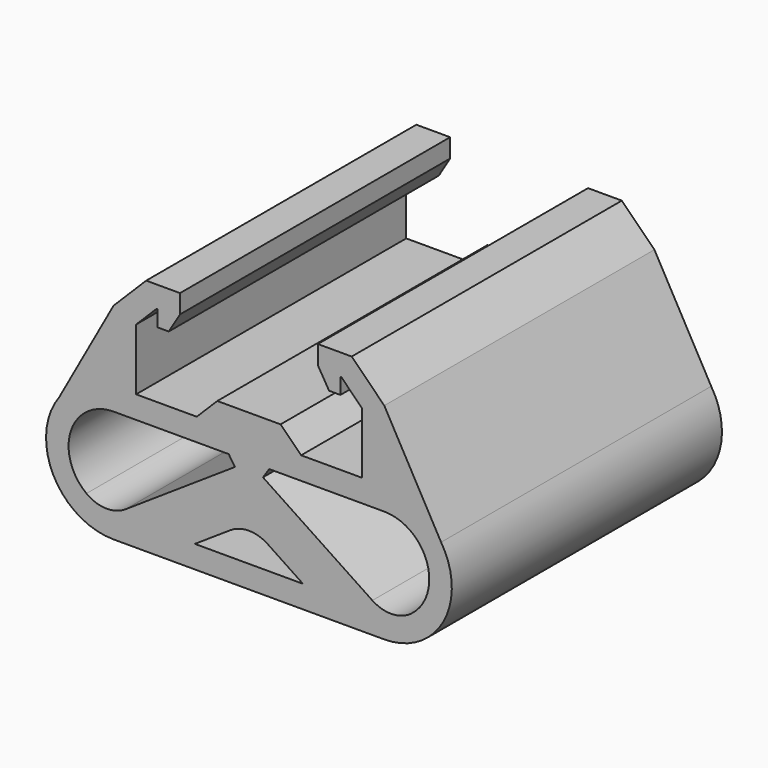
from build123d import *

# Parameters (mm, degrees)
F1_DEPTH = 30


with BuildPart() as f1:
    # F0 (on Front) → F1 (new body)
    with BuildSketch(Plane.XZ):
        with BuildLine():
            Line((-10.025, -10.025), (-10.025, -4.563699))
            Line((-10.025, -4.563699), (-8.201301, -2.74))
            Line((-8.201301, -2.74), (-8.125, -2.74))
            Line((-8.125, -2.74), (-8.125, -4.16967))
            Line((-8.125, -4.16967), (-7.125, -4.16967))
            Line((-7.125, -4.16967), (-6.125, -2.504835))
            Line((-6.125, -2.504835), (-6.125, -0.84))
            Line((-6.125, -0.84), (-9.129728, -0.84))
            Line((-9.129728, -0.84), (-12.025, -3.735272))
            Line((-12.025, -3.735272), (-16.854638, -12.46486))
            ThreePointArc((-16.854638, -12.46486), (-17.38041, -18.730472), (-12.025, -22.025))
            Line((-12.025, -22.025), (12.025, -22.025))
            ThreePointArc((12.025, -22.025), (17.29087, -18.900868), (17.072982, -12.781872))
            Line((17.072982, -12.781872), (12.025, -3.735272))
            Line((12.025, -3.735272), (9.129728, -0.84))
            Line((9.129728, -0.84), (6.125, -0.84))
            Line((6.125, -0.84), (6.125, -2.504835))
            Line((6.125, -2.504835), (7.125, -4.16967))
            Line((7.125, -4.16967), (8.125, -4.16967))
            Line((8.125, -4.16967), (8.125, -2.74))
            Line((8.125, -2.74), (8.201301, -2.74))
            Line((8.201301, -2.74), (10.025, -4.563699))
            Line((10.025, -4.563699), (10.025, -10.025))
            Line((10.025, -10.025), (4.636716, -10.025))
            Line((4.636716, -10.025), (2.811716, -8.2))
            Line((2.811716, -8.2), (-2.811716, -8.2))
            Line((-2.811716, -8.2), (-4.636716, -10.025))
            Line((-4.636716, -10.025), (-8.125, -10.025))
            Line((-8.125, -10.025), (-10.025, -10.025))
        make_face()
        with BuildLine():
            ThreePointArc((-14.436503, -19.21634), (-15.81745, -14.753261), (-12.025, -12.025))
            Line((-12.025, -12.025), (-1.797092, -12.025))
            Line((-1.797092, -12.025), (-1.245732, -12.853762))
            Line((-1.245732, -12.853762), (-10.966173, -19.320583))
            ThreePointArc((-10.966173, -19.320583), (-12.71795, -19.821483), (-14.436503, -19.21634))
        make_face(mode=Mode.SUBTRACT)
        with BuildLine():
            Line((4.803493, -20.025), (-4.803493, -20.025))
            Line((-4.803493, -20.025), (-1.661703, -17.934828))
            ThreePointArc((-1.661703, -17.934828), (0, -17.432575), (1.661703, -17.934828))
            Line((1.661703, -17.934828), (4.803493, -20.025))
        make_face(mode=Mode.SUBTRACT)
        with BuildLine():
            ThreePointArc((12.025, -12.025), (15.81745, -14.753261), (14.436503, -19.21634))
            ThreePointArc((14.436503, -19.21634), (12.71795, -19.821483), (10.966173, -19.320583))
            Line((10.966173, -19.320583), (1.245732, -12.853762))
            Line((1.245732, -12.853762), (1.797092, -12.025))
            Line((1.797092, -12.025), (12.025, -12.025))
        make_face(mode=Mode.SUBTRACT)
    extrude(amount=F1_DEPTH)


solid = f1.part
